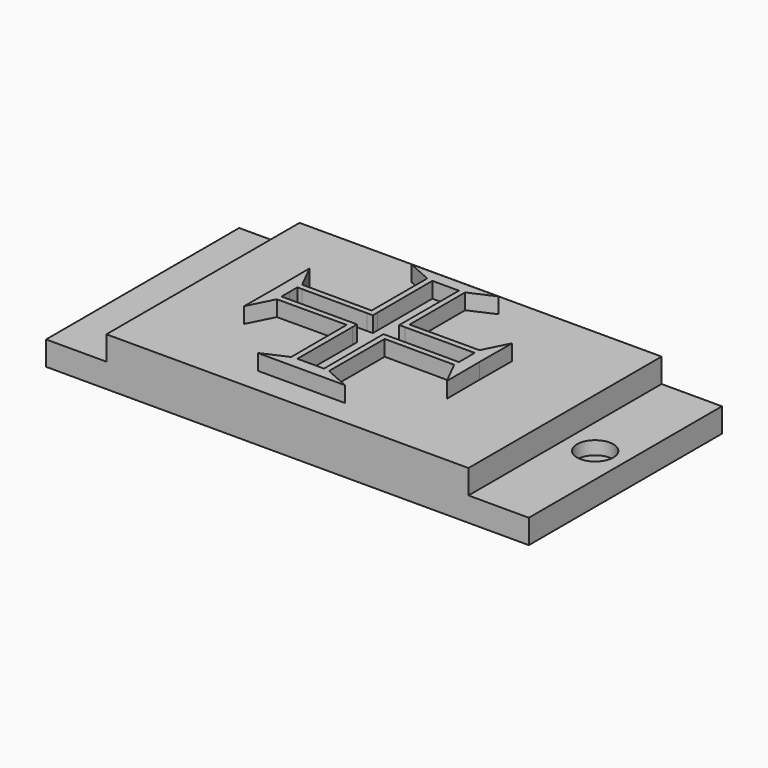
from build123d import *

# Parameters (mm, degrees)
F0_W     = 30
F0_H     = 20
F1_DEPTH = 4
F2_W     = 5
F2_H     = 20
F3_DEPTH = 2
F5_DEPTH = 1.3
F6_W     = 5
F6_H     = 20
F7_DEPTH = 2
F8_R     = 1.5
F9_DEPTH = 1.1


with BuildPart() as f1:
    # F0 (on Top) → F1 (new body)
    with BuildSketch(Plane.XY):
        with Locations((-15, 10)):
            Rectangle(F0_W, F0_H)
    extrude(amount=F1_DEPTH)

    # F2 (on face) → F3 (join)
    with BuildSketch(Plane(origin=(0, 0, 0), x_dir=(1, 0, 0), z_dir=(0, 0, -1))):
        with Locations((-32.5, -10)):
            Rectangle(F2_W, F2_H)
    extrude(amount=-F3_DEPTH)

    # F4 (on face) → F5 (join)
    with BuildSketch(Plane.XY.offset(4)):
        Polygon((-14.4567919296, 10.897058451), (-13.9734713034, 10.8974938178), (-13.9741291965, 11.3685017389), (-14.4561063498, 11.3666541874), align=None)
        Polygon((-13.9741291965, 11.3685017389), (-13.9734713034, 10.8974938178), (-8.5701756179, 10.902361013), (-8.198968805, 10.9070869228), (-8.1985752936, 10.0812381133), (-8.198968805, 9.2553893039), (-8.5701756179, 9.2601152137), (-13.9734713034, 9.2649824089), (-13.9741291965, 8.7939744878), (-8.2043278962, 8.7718572468), (-7.1527287364, 6.6936984658), (-7.1703906207, 10.0812381133), (-7.1527287364, 13.4687777609), (-8.2043278962, 11.3906189799), align=None)
        Polygon((-14.4561063498, 11.3666541874), (-13.9741291965, 11.3685017389), (-13.9821750256, 17.1287826718), (-11.9453166755, 18.0399830909), (-15.5499000102, 18.0399830909), (-19.1544833449, 18.0399830909), (-17.1176249949, 17.1287826718), (-17.1256708239, 11.3685017389), (-16.6436936706, 11.3666541874), (-16.6520233348, 17.0721532121), (-16.650039608, 17.0703820259), (-15.5499000102, 17.0703820259), (-14.4497604124, 17.0703820259), (-14.4477766856, 17.0721532121), align=None)
        Polygon((-13.9741291965, 8.7939744878), (-13.9734713034, 9.2649824089), (-14.4567919296, 9.2654177757), (-14.4561063498, 8.7958220392), align=None)
        Polygon((-16.6436936706, 11.3666541874), (-17.1256708239, 11.3685017389), (-17.1263287171, 10.8974938178), (-16.6430080908, 10.897058451), align=None)
        Polygon((-17.1263287171, 10.8974938178), (-17.1256708239, 11.3685017389), (-22.8954721242, 11.3906189799), (-23.9470712841, 13.4687777609), (-23.9294093997, 10.0812381133), (-23.9470712841, 6.6936984658), (-22.8954721242, 8.7718572468), (-17.1256708239, 8.7939744878), (-17.1263287171, 9.2649824089), (-22.5296244025, 9.2601152137), (-22.9008312154, 9.2553893039), (-22.9012247269, 10.0812381133), (-22.9008312154, 10.9070869228), (-22.5296244025, 10.902361013), align=None)
        Polygon((-13.9821750256, 3.0336935549), (-13.9741291965, 8.7939744878), (-14.4561063498, 8.7958220392), (-14.4477766856, 3.0903230146), (-14.4497604124, 3.0920942008), (-15.5499000102, 3.0920942008), (-16.650039608, 3.0920942008), (-16.6520233348, 3.0903230146), (-16.6436936706, 8.7958220392), (-17.1256708239, 8.7939744878), (-17.1176249949, 3.0336935549), (-19.1544833449, 2.1224931358), (-15.5499000102, 2.1224931358), (-11.9453166755, 2.1224931358), align=None)
        Polygon((-17.1263287171, 9.2649824089), (-17.1256708239, 8.7939744878), (-16.6436936706, 8.7958220392), (-16.6430080908, 9.2654177757), align=None)
    extrude(amount=F5_DEPTH)

    # F6 (on face) → F7 (join)
    with BuildSketch(Plane(origin=(0, 0, 0), x_dir=(1, 0, 0), z_dir=(0, 0, -1))):
        with Locations((2.5, -10)):
            Rectangle(F6_W, F6_H)
    extrude(amount=-F7_DEPTH)

    # F8 (on face) → F9 (cut)
    with BuildSketch(Plane.XY.offset(2)):
        with Locations((2.5, 10)):
            Circle(F8_R)
    extrude(amount=-F9_DEPTH, mode=Mode.SUBTRACT)


solid = f1.part
